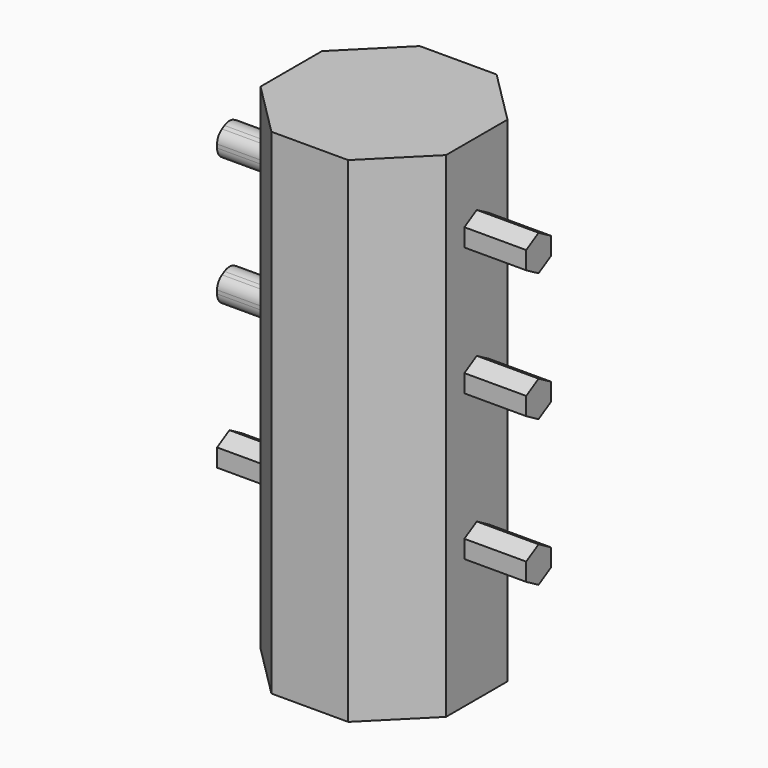
from build123d import *

# Parameters (mm, degrees)
F1_DEPTH      = 101.6
F3_DEPTH      = 12.7
F3_DEPTH_BACK = 50.8
F4_R          = 2.54
F5_R          = 2.54


with BuildPart() as f1:
    # F0 (on Top) → F1 (new body)
    with BuildSketch(Plane.XY):
        Polygon((19.05, -7.8907683632), (19.05, 7.8907683632), (7.8907683632, 19.05), (-7.8907683632, 19.05), (-19.05, 7.8907683632), (-19.05, -7.8907683632), (-7.8907683632, -19.05), (7.8907683632, -19.05), align=None)
    extrude(amount=F1_DEPTH)

    # F2 (on face) → F3 (join, two sides)
    with BuildSketch(Plane.YZ.offset(19.05)) as f3_sk:
        Polygon((3.175, 82.9758370032), (3.175, 86.6420112126), (0, 88.4750983173), (-3.175, 86.6420112126), (-3.175, 82.9758370032), (0, 81.1427498985), align=None)
        Polygon((3.175, 56.5934885845), (3.175, 60.2596627939), (0, 62.0927498985), (-3.175, 60.2596627939), (-3.175, 56.5934885845), (0, 54.7604014798), align=None)
        Polygon((3.175, 26.6308819025), (3.175, 30.2970561118), (0, 32.1301432165), (-3.175, 30.2970561118), (-3.175, 26.6308819025), (0, 24.7977947978), align=None)
    extrude(amount=F3_DEPTH)
    extrude(f3_sk.sketch, amount=-F3_DEPTH_BACK)

    # F4
    f4_edges = [f1.edges().sort_by_distance(p)[0] for p in [
        (-25.4, 3.175, 86.642011),
        (-25.4, 3.175, 82.975837),
        (-25.4, 0, 81.14275),
        (-25.4, -3.175, 82.975837),
        (-25.4, -3.175, 86.642011),
        (-25.4, 0, 88.475098),
    ]]
    fillet(f4_edges, radius=F4_R)

    # F5
    f5_edges = [f1.edges().sort_by_distance(p)[0] for p in [
        (-25.4, 0, 62.09275),
        (-25.4, -3.175, 56.593489),
        (-25.4, 0, 54.760401),
        (-25.4, 3.175, 56.593489),
        (-25.4, 3.175, 60.259663),
        (-25.4, -3.175, 60.259663),
    ]]
    fillet(f5_edges, radius=F5_R)


solid = f1.part
